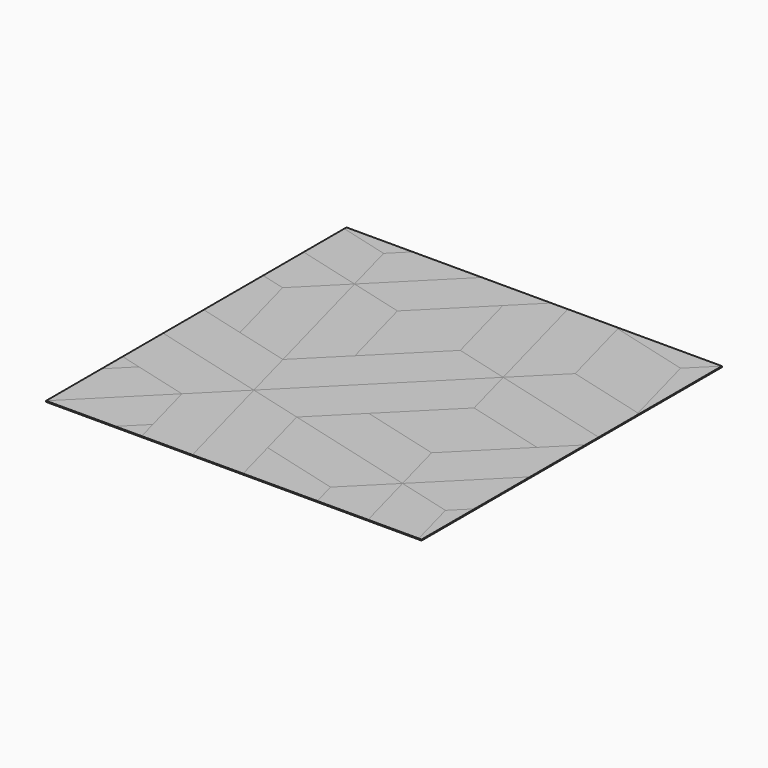
from build123d import *

# Parameters (mm, degrees)
F1_DEPTH = 0.79375
F2_DEPTH = 0.79375
F3_DEPTH = 0.79375


with BuildPart() as f1:
    # F0 (on Top) → F1 (new body)
    with BuildSketch(Plane.XY):
        Polygon((-7.6503990469, 125.1191826267), (13.2804183263, 146.05), (-40.6011184001, 146.05), (-95.6914612629, 90.9596571371), (-53.1964330331, 79.5731486406), align=None)
    extrude(amount=F1_DEPTH)


with BuildPart() as f1b:
    # F0 (on Top) → F1, piece 2 (new body)
    with BuildSketch(Plane.XY):
        Polygon((-67.6339472858, -13.7524105594), (-95.6914612629, 90.9596571371), (-126.7999809963, 59.8511374038), (-110.1289755157, -2.3659020629), align=None)
    extrude(amount=F1_DEPTH)


with BuildPart() as f1c:
    # F0 (on Top) → F1, piece 3 (new body)
    with BuildSketch(Plane.XY):
        Polygon((-146.05, 104.4531869238), (-95.6914612629, 90.9596571371), (-107.0779697595, 133.454685367), (-146.05, 143.8972093974), align=None)
    extrude(amount=F1_DEPTH)


with BuildPart() as f1d:
    # F0 (on Top) → F1, piece 4 (new body)
    with BuildSketch(Plane.XY):
        Polygon((-75.9694500261, -129.8509867525), (-87.3559585227, -87.3559585227), (-146.05, -146.05), (-92.1684632736, -146.05), align=None)
    extrude(amount=F1_DEPTH)


with BuildPart() as f1e:
    # F0 (on Top) → F1, piece 5 (new body)
    with BuildSketch(Plane.XY):
        Polygon((17.3561091739, -36.5254275525), (-13.7524105594, -67.6339472858), (90.9596571371, -95.6914612629), (79.5731486406, -53.1964330331), align=None)
    extrude(amount=F1_DEPTH)


with BuildPart() as f1f:
    # F0 (on Top) → F1, piece 6 (new body)
    with BuildSketch(Plane.XY):
        Polygon((146.05, -94.4826551265), (146.05, -40.6011184001), (90.9596571371, -95.6914612629), (133.454685367, -107.0779697595), align=None)
    extrude(amount=F1_DEPTH)


with BuildPart() as f1g:
    # F0 (on Top) → F1, piece 7 (new body)
    with BuildSketch(Plane.XY):
        Polygon((104.4531869238, -146.05), (90.9596571371, -95.6914612629), (59.8511374038, -126.7999809963), (65.0091644501, -146.05), align=None)
    extrude(amount=F1_DEPTH)


with BuildPart() as f1h:
    # F0 (on Top) → F1, piece 8 (new body)
    with BuildSketch(Plane.XY):
        Polygon((-56.2474387893, -56.2474387893), (51.5156346635, 51.5156346635), (9.0206064336, 62.9021431601), (-36.5254275525, 17.3561091739), (-67.6339472858, -13.7524105594), align=None)
    extrude(amount=F1_DEPTH)


with BuildPart() as f1i:
    # F0 (on Top) → F1, piece 9 (new body)
    with BuildSketch(Plane.XY):
        Polygon((-13.7524105594, -67.6339472858), (-56.2474387893, -56.2474387893), (-32.1849150347, -146.05), (7.259107439, -146.05), (-2.3659020629, -110.1289755157), align=None)
    extrude(amount=F1_DEPTH)


with BuildPart() as f1j:
    # F0 (on Top) → F1, piece 10 (new body)
    with BuildSketch(Plane.XY):
        Polygon((-87.3559585227, -87.3559585227), (-56.2474387893, -56.2474387893), (-146.05, -32.1849150347), (-146.05, -71.6289375083), (-129.8509867525, -75.9694500261), align=None)
    extrude(amount=F1_DEPTH)


with BuildPart() as f1k:
    # F0 (on Top) → F1, piece 11 (new body)
    with BuildSketch(Plane.XY):
        Polygon((146.05, 13.2804183263), (146.05, 26.1852278146), (51.5156346635, 51.5156346635), (62.9021431601, 9.0206064336), (125.1191826267, -7.6503990469), align=None)
    extrude(amount=F1_DEPTH)


with BuildPart() as f1l:
    # F0 (on Top) → F1, piece 12 (new body)
    with BuildSketch(Plane.XY):
        Polygon((65.9531489163, 144.8411938636), (61.4418229986, 146.05), (26.1852278146, 146.05), (51.5156346635, 51.5156346635), (82.6241543969, 82.6241543969), align=None)
    extrude(amount=F1_DEPTH)


with BuildPart() as f1m:
    # F0 (on Top) → F1, piece 13 (new body)
    with BuildSketch(Plane.XY):
        Polygon((146.05, 61.4418229986), (146.05, 146.05), (128.170188383, 128.170188383), (144.8411938636, 65.9531489163), align=None)
    extrude(amount=F1_DEPTH)


with BuildPart() as f2:
    # F0 (on Top) → F2 (new body)
    with BuildSketch(Plane.XY):
        Polygon((-95.6914612629, 90.9596571371), (-40.6011184001, 146.05), (-94.4826551265, 146.05), (-107.0779697595, 133.454685367), align=None)
    extrude(amount=F2_DEPTH)


with BuildPart() as f2b:
    # F0 (on Top) → F2, piece 2 (new body)
    with BuildSketch(Plane.XY):
        Polygon((-126.7999809963, 59.8511374038), (-95.6914612629, 90.9596571371), (-146.05, 104.4531869238), (-146.05, 65.0091644501), align=None)
    extrude(amount=F2_DEPTH)


with BuildPart() as f2c:
    # F0 (on Top) → F2, piece 3 (new body)
    with BuildSketch(Plane.XY):
        Polygon((-53.1964330331, 79.5731486406), (-95.6914612629, 90.9596571371), (-67.6339472858, -13.7524105594), (-36.5254275525, 17.3561091739), align=None)
    extrude(amount=F2_DEPTH)


with BuildPart() as f2d:
    # F0 (on Top) → F2, piece 4 (new body)
    with BuildSketch(Plane.XY):
        Polygon((-146.05, -32.1849150347), (-56.2474387893, -56.2474387893), (-67.6339472858, -13.7524105594), (-110.1289755157, -2.3659020629), (-146.05, 7.259107439), align=None)
    extrude(amount=F2_DEPTH)


with BuildPart() as f2e:
    # F0 (on Top) → F2, piece 5 (new body)
    with BuildSketch(Plane.XY):
        Polygon((-146.05, -146.05), (-87.3559585227, -87.3559585227), (-129.8509867525, -75.9694500261), (-146.05, -92.1684632736), align=None)
    extrude(amount=F2_DEPTH)


with BuildPart() as f2f:
    # F0 (on Top) → F2, piece 6 (new body)
    with BuildSketch(Plane.XY):
        Polygon((-32.1849150347, -146.05), (-56.2474387893, -56.2474387893), (-87.3559585227, -87.3559585227), (-75.9694500261, -129.8509867525), (-71.6289375083, -146.05), align=None)
    extrude(amount=F2_DEPTH)


with BuildPart() as f2g:
    # F0 (on Top) → F2, piece 7 (new body)
    with BuildSketch(Plane.XY):
        Polygon((62.9021431601, 9.0206064336), (51.5156346635, 51.5156346635), (-56.2474387893, -56.2474387893), (-13.7524105594, -67.6339472858), (17.3561091739, -36.5254275525), align=None)
    extrude(amount=F2_DEPTH)


with BuildPart() as f2h:
    # F0 (on Top) → F2, piece 8 (new body)
    with BuildSketch(Plane.XY):
        Polygon((90.9596571371, -95.6914612629), (-13.7524105594, -67.6339472858), (-2.3659020629, -110.1289755157), (59.8511374038, -126.7999809963), align=None)
    extrude(amount=F2_DEPTH)


with BuildPart() as f2i:
    # F0 (on Top) → F2, piece 9 (new body)
    with BuildSketch(Plane.XY):
        Polygon((133.454685367, -107.0779697595), (90.9596571371, -95.6914612629), (104.4531869238, -146.05), (143.8972093974, -146.05), align=None)
    extrude(amount=F2_DEPTH)


with BuildPart() as f2j:
    # F0 (on Top) → F2, piece 10 (new body)
    with BuildSketch(Plane.XY):
        Polygon((146.05, -40.6011184001), (146.05, 13.2804183263), (125.1191826267, -7.6503990469), (79.5731486406, -53.1964330331), (90.9596571371, -95.6914612629), align=None)
    extrude(amount=F2_DEPTH)


with BuildPart() as f2k:
    # F0 (on Top) → F2, piece 11 (new body)
    with BuildSketch(Plane.XY):
        Polygon((146.05, 26.1852278146), (146.05, 61.4418229986), (144.8411938636, 65.9531489163), (82.6241543969, 82.6241543969), (51.5156346635, 51.5156346635), align=None)
    extrude(amount=F2_DEPTH)


with BuildPart() as f2l:
    # F0 (on Top) → F2, piece 12 (new body)
    with BuildSketch(Plane.XY):
        Polygon((51.5156346635, 51.5156346635), (26.1852278146, 146.05), (13.2804183263, 146.05), (-7.6503990469, 125.1191826267), (9.0206064336, 62.9021431601), align=None)
    extrude(amount=F2_DEPTH)


with BuildPart() as f2m:
    # F0 (on Top) → F2, piece 13 (new body)
    with BuildSketch(Plane.XY):
        Polygon((128.170188383, 128.170188383), (146.05, 146.05), (61.4418229986, 146.05), (65.9531489163, 144.8411938636), align=None)
    extrude(amount=F2_DEPTH)


with BuildPart() as f3:
    # F0 (on Top) → F3 (new body)
    with BuildSketch(Plane.XY):
        Polygon((-107.0779697595, 133.454685367), (-94.4826551265, 146.05), (-146.05, 146.05), (-146.05, 143.8972093974), align=None)
    extrude(amount=F3_DEPTH)


with BuildPart() as f3b:
    # F0 (on Top) → F3, piece 2 (new body)
    with BuildSketch(Plane.XY):
        Polygon((-110.1289755157, -2.3659020629), (-126.7999809963, 59.8511374038), (-146.05, 65.0091644501), (-146.05, 7.259107439), align=None)
    extrude(amount=F3_DEPTH)


with BuildPart() as f3c:
    # F0 (on Top) → F3, piece 3 (new body)
    with BuildSketch(Plane.XY):
        Polygon((9.0206064336, 62.9021431601), (-7.6503990469, 125.1191826267), (-53.1964330331, 79.5731486406), (-36.5254275525, 17.3561091739), align=None)
    extrude(amount=F3_DEPTH)


with BuildPart() as f3d:
    # F0 (on Top) → F3, piece 4 (new body)
    with BuildSketch(Plane.XY):
        Polygon((144.8411938636, 65.9531489163), (128.170188383, 128.170188383), (65.9531489163, 144.8411938636), (82.6241543969, 82.6241543969), align=None)
    extrude(amount=F3_DEPTH)


with BuildPart() as f3e:
    # F0 (on Top) → F3, piece 5 (new body)
    with BuildSketch(Plane.XY):
        Polygon((125.1191826267, -7.6503990469), (62.9021431601, 9.0206064336), (17.3561091739, -36.5254275525), (79.5731486406, -53.1964330331), align=None)
    extrude(amount=F3_DEPTH)


with BuildPart() as f3f:
    # F0 (on Top) → F3, piece 6 (new body)
    with BuildSketch(Plane.XY):
        Polygon((146.05, -146.05), (146.05, -94.4826551265), (133.454685367, -107.0779697595), (143.8972093974, -146.05), align=None)
    extrude(amount=F3_DEPTH)


with BuildPart() as f3g:
    # F0 (on Top) → F3, piece 7 (new body)
    with BuildSketch(Plane.XY):
        Polygon((-2.3659020629, -110.1289755157), (7.259107439, -146.05), (65.0091644501, -146.05), (59.8511374038, -126.7999809963), align=None)
    extrude(amount=F3_DEPTH)


with BuildPart() as f3h:
    # F0 (on Top) → F3, piece 8 (new body)
    with BuildSketch(Plane.XY):
        Polygon((-71.6289375083, -146.05), (-75.9694500261, -129.8509867525), (-92.1684632736, -146.05), align=None)
    extrude(amount=F3_DEPTH)


with BuildPart() as f3i:
    # F0 (on Top) → F3, piece 9 (new body)
    with BuildSketch(Plane.XY):
        Polygon((-146.05, -92.1684632736), (-129.8509867525, -75.9694500261), (-146.05, -71.6289375083), align=None)
    extrude(amount=F3_DEPTH)


solid = Compound([f1.part, f1b.part, f1c.part, f1d.part, f1e.part, f1f.part, f1g.part, f1h.part, f1i.part, f1j.part, f1k.part, f1l.part, f1m.part, f2.part, f2b.part, f2c.part, f2d.part, f2e.part, f2f.part, f2g.part, f2h.part, f2i.part, f2j.part, f2k.part, f2l.part, f2m.part, f3.part, f3b.part, f3c.part, f3d.part, f3e.part, f3f.part, f3g.part, f3h.part, f3i.part])
